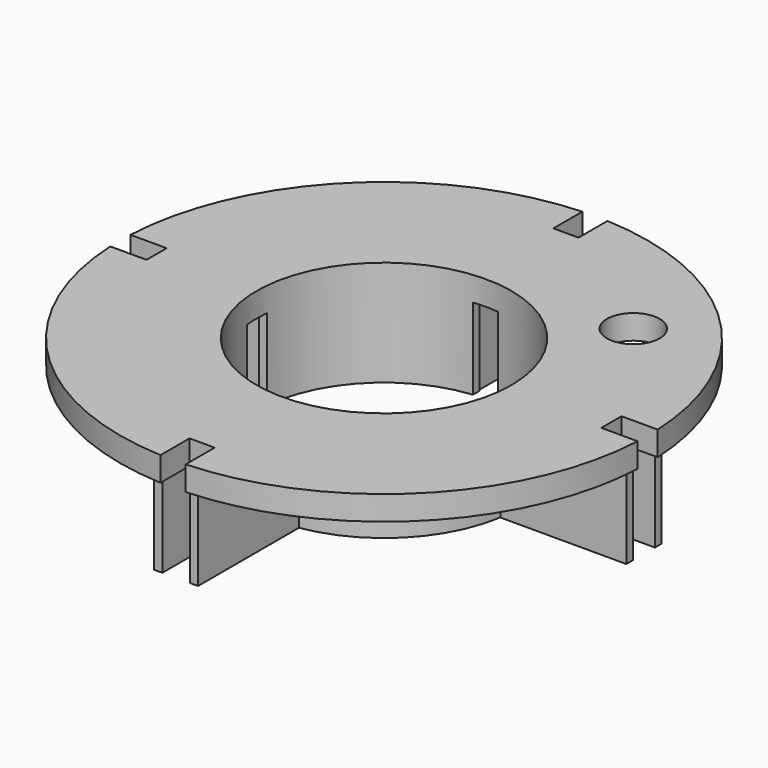
from build123d import *

# Parameters (mm, degrees)
CYLINDER_R     = 3.25
CYLINDER_DEPTH = 10
BOX030_W       = 3
BOX030_H       = 3
BOX030_DEPTH   = 3
BOX047_W       = 3
BOX047_H       = 3
BOX047_DEPTH   = 3
BOX029_W       = 3
BOX029_H       = 3
BOX029_DEPTH   = 3
BOX028_W       = 3
BOX028_H       = 3
BOX028_DEPTH   = 3
BOX043_W       = 3.1
BOX043_H       = 6
BOX043_DEPTH   = 10
BOX044_W       = 3.1
BOX044_H       = 6
BOX044_DEPTH   = 10
BOX045_W       = 6
BOX045_H       = 3.1
BOX045_DEPTH   = 10
BOX046_W       = 6
BOX046_H       = 3.1
BOX046_DEPTH   = 10
BOX032_W       = 3.1
BOX032_H       = 6
BOX032_DEPTH   = 3
BOX033_W       = 6
BOX033_H       = 3.1
BOX033_DEPTH   = 3
BOX034_W       = 6
BOX034_H       = 3.1
BOX034_DEPTH   = 3
BOX031_W       = 3.1
BOX031_H       = 6
BOX031_DEPTH   = 3
TUBE003_R      = 16.7
TUBE003_R_2    = 15.7
TUBE003_DEPTH  = 10
BOX036_W       = 1
BOX036_H       = 16
BOX036_DEPTH   = 10
BOX037_W       = 1
BOX037_H       = 16
BOX037_DEPTH   = 10
BOX038_W       = 1
BOX038_H       = 16
BOX038_DEPTH   = 10
BOX039_W       = 16
BOX039_H       = 1
BOX039_DEPTH   = 10
BOX040_W       = 16
BOX040_H       = 1
BOX040_DEPTH   = 10
BOX041_W       = 16
BOX041_H       = 1
BOX041_DEPTH   = 10
BOX042_W       = 16
BOX042_H       = 1
BOX042_DEPTH   = 10
BOX035_W       = 1
BOX035_H       = 16
BOX035_DEPTH   = 10
TUBE002_R      = 32.5
TUBE002_R_2    = 15.7
TUBE002_DEPTH  = 3


with BuildPart() as eyeboltcutout:
    # Cylinder → Cylinder (new body)
    with BuildSketch(Plane(origin=(17.5, 16.5, 91), x_dir=(1, 0, 0), z_dir=(0, 0, 1))):
        Circle(CYLINDER_R)
    extrude(amount=CYLINDER_DEPTH)


with BuildPart() as finlock015:
    # Box030 → Box030 (new body)
    with BuildSketch(Plane(origin=(-1.5, 21, -3), x_dir=(1, 0, 0), z_dir=(0, 0, 1))):
        with Locations((1.5, 1.5)):
            Rectangle(BOX030_W, BOX030_H)
    extrude(amount=BOX030_DEPTH)


with BuildPart() as finlock016:
    # Box047 → Box047 (new body)
    with BuildSketch(Plane(origin=(-1.5, -24, -3), x_dir=(1, 0, 0), z_dir=(0, 0, 1))):
        with Locations((1.5, 1.5)):
            Rectangle(BOX047_W, BOX047_H)
    extrude(amount=BOX047_DEPTH)


with BuildPart() as finlock014:
    # Box029 → Box029 (new body)
    with BuildSketch(Plane(origin=(-24, -1.5, -3), x_dir=(1, 0, 0), z_dir=(0, 0, 1))):
        with Locations((1.5, 1.5)):
            Rectangle(BOX029_W, BOX029_H)
    extrude(amount=BOX029_DEPTH)


with BuildPart() as finlocks001:
    # Box028 → Box028 (new body)
    with BuildSketch(Plane(origin=(21, -1.5, -3), x_dir=(1, 0, 0), z_dir=(0, 0, 1))):
        with Locations((1.5, 1.5)):
            Rectangle(BOX028_W, BOX028_H)
    extrude(amount=BOX028_DEPTH)

    # Fusion014: union FinLock015, FinLock016, FinLock014
    add(finlock015.part)
    add(finlock016.part)
    add(finlock014.part)


with BuildPart() as fincut013:
    # Box043 → Box043 (new body)
    with BuildSketch(Plane(origin=(-1.55, -21, -10), x_dir=(1, 0, 0), z_dir=(0, 0, 1))):
        with Locations((1.55, 3)):
            Rectangle(BOX043_W, BOX043_H)
    extrude(amount=BOX043_DEPTH)


with BuildPart() as fincut014:
    # Box044 → Box044 (new body)
    with BuildSketch(Plane(origin=(-1.55, 15, -10), x_dir=(1, 0, 0), z_dir=(0, 0, 1))):
        with Locations((1.55, 3)):
            Rectangle(BOX044_W, BOX044_H)
    extrude(amount=BOX044_DEPTH)


with BuildPart() as fincut015:
    # Box045 → Box045 (new body)
    with BuildSketch(Plane(origin=(15, -1.55, -10), x_dir=(1, 0, 0), z_dir=(0, 0, 1))):
        with Locations((3, 1.55)):
            Rectangle(BOX045_W, BOX045_H)
    extrude(amount=BOX045_DEPTH)


with BuildPart() as innerfincutouts001:
    # Box046 → Box046 (new body)
    with BuildSketch(Plane(origin=(-21, -1.55, -10), x_dir=(1, 0, 0), z_dir=(0, 0, 1))):
        with Locations((3, 1.55)):
            Rectangle(BOX046_W, BOX046_H)
    extrude(amount=BOX046_DEPTH)

    # Fusion011: union FinCut013, FinCut014, FinCut015
    add(fincut013.part)
    add(fincut014.part)
    add(fincut015.part)


with BuildPart() as fincut010:
    # Box032 → Box032 (new body)
    with BuildSketch(Plane(origin=(-1.55, 28, 0), x_dir=(1, 0, 0), z_dir=(0, 0, 1))):
        with Locations((1.55, 3)):
            Rectangle(BOX032_W, BOX032_H)
    extrude(amount=BOX032_DEPTH)


with BuildPart() as fincut011:
    # Box033 → Box033 (new body)
    with BuildSketch(Plane(origin=(28, -1.55, 0), x_dir=(1, 0, 0), z_dir=(0, 0, 1))):
        with Locations((3, 1.55)):
            Rectangle(BOX033_W, BOX033_H)
    extrude(amount=BOX033_DEPTH)


with BuildPart() as fincut012:
    # Box034 → Box034 (new body)
    with BuildSketch(Plane(origin=(-34, -1.55, 0), x_dir=(1, 0, 0), z_dir=(0, 0, 1))):
        with Locations((3, 1.55)):
            Rectangle(BOX034_W, BOX034_H)
    extrude(amount=BOX034_DEPTH)


with BuildPart() as fincutouts001:
    # Box031 → Box031 (new body)
    with BuildSketch(Plane(origin=(-1.55, -34, 0), x_dir=(1, 0, 0), z_dir=(0, 0, 1))):
        with Locations((1.55, 3)):
            Rectangle(BOX031_W, BOX031_H)
    extrude(amount=BOX031_DEPTH)

    # Fusion009: union FinCut010, FinCut011, FinCut012
    add(fincut010.part)
    add(fincut011.part)
    add(fincut012.part)

    # Fusion012: union InnerFinCutouts001
    add(innerfincutouts001.part)


with BuildPart() as innertube001:
    # Tube003 → Tube003 (new body)
    with BuildSketch(Plane.XY.offset(-10)):
        Circle(TUBE003_R)
        Circle(TUBE003_R_2, mode=Mode.SUBTRACT)
    extrude(amount=TUBE003_DEPTH)


with BuildPart() as alignment010:
    # Box036 → Box036 (new body)
    with BuildSketch(Plane(origin=(-2.7, 16, -10), x_dir=(1, 0, 0), z_dir=(0, 0, 1))):
        with Locations((0.5, 8)):
            Rectangle(BOX036_W, BOX036_H)
    extrude(amount=BOX036_DEPTH)


with BuildPart() as alignment011:
    # Box037 → Box037 (new body)
    with BuildSketch(Plane(origin=(-2.7, -32, -10), x_dir=(1, 0, 0), z_dir=(0, 0, 1))):
        with Locations((0.5, 8)):
            Rectangle(BOX037_W, BOX037_H)
    extrude(amount=BOX037_DEPTH)


with BuildPart() as alignment012:
    # Box038 → Box038 (new body)
    with BuildSketch(Plane(origin=(1.7, -32, -10), x_dir=(1, 0, 0), z_dir=(0, 0, 1))):
        with Locations((0.5, 8)):
            Rectangle(BOX038_W, BOX038_H)
    extrude(amount=BOX038_DEPTH)


with BuildPart() as alignment013:
    # Box039 → Box039 (new body)
    with BuildSketch(Plane(origin=(16, 1.7, -10), x_dir=(1, 0, 0), z_dir=(0, 0, 1))):
        with Locations((8, 0.5)):
            Rectangle(BOX039_W, BOX039_H)
    extrude(amount=BOX039_DEPTH)


with BuildPart() as alignment014:
    # Box040 → Box040 (new body)
    with BuildSketch(Plane(origin=(16, -2.7, -10), x_dir=(1, 0, 0), z_dir=(0, 0, 1))):
        with Locations((8, 0.5)):
            Rectangle(BOX040_W, BOX040_H)
    extrude(amount=BOX040_DEPTH)


with BuildPart() as alignment015:
    # Box041 → Box041 (new body)
    with BuildSketch(Plane(origin=(-32, 1.7, -10), x_dir=(1, 0, 0), z_dir=(0, 0, 1))):
        with Locations((8, 0.5)):
            Rectangle(BOX041_W, BOX041_H)
    extrude(amount=BOX041_DEPTH)


with BuildPart() as alignment016:
    # Box042 → Box042 (new body)
    with BuildSketch(Plane(origin=(-32, -2.7, -10), x_dir=(1, 0, 0), z_dir=(0, 0, 1))):
        with Locations((8, 0.5)):
            Rectangle(BOX042_W, BOX042_H)
    extrude(amount=BOX042_DEPTH)


with BuildPart() as alignmenttabs001:
    # Box035 → Box035 (new body)
    with BuildSketch(Plane(origin=(1.7, 16, -10), x_dir=(1, 0, 0), z_dir=(0, 0, 1))):
        with Locations((0.5, 8)):
            Rectangle(BOX035_W, BOX035_H)
    extrude(amount=BOX035_DEPTH)

    # Fusion010: union Alignment010, Alignment011, Alignment012, Alignment013, Alignment014, Alignment015, Alignment016
    add(alignment010.part)
    add(alignment011.part)
    add(alignment012.part)
    add(alignment013.part)
    add(alignment014.part)
    add(alignment015.part)
    add(alignment016.part)


with BuildPart() as cut004:
    # Tube002 → Tube002 (new body)
    with BuildSketch(Plane.XY):
        Circle(TUBE002_R)
        Circle(TUBE002_R_2, mode=Mode.SUBTRACT)
    extrude(amount=TUBE002_DEPTH)

    # Fusion013: union InnerTube001, AlignmentTabs001
    add(innertube001.part)
    add(alignmenttabs001.part)

    # Cut003: cut FinCutouts001
    add(fincutouts001.part, mode=Mode.SUBTRACT)

    # Connect001: union FinLocks001
    add(finlocks001.part)


with BuildPart() as cut004_1:
    # Connect001 placement: moved
    add(cut004.part.moved(Location((0, 0, 95))))

    # Cut004: cut EyeboltCutout
    add(eyeboltcutout.part, mode=Mode.SUBTRACT)


solid = cut004_1.part
